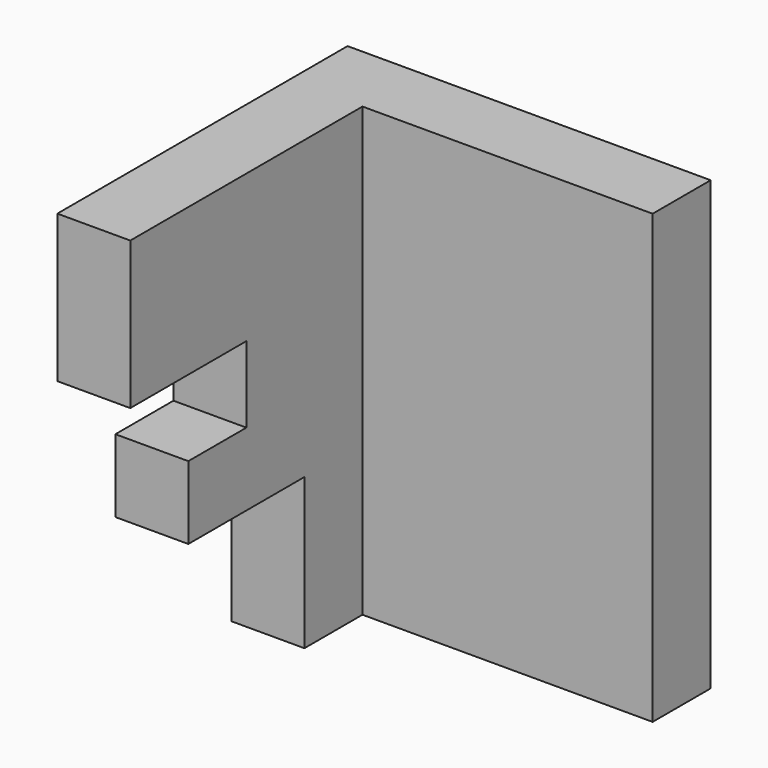
from build123d import *

# Parameters (mm, degrees)
F0_W     = 50.7864877582
F0_H     = 78.3076584339
F1_DEPTH = 12.7
F0_W_2   = 12.7675551921
F2_DEPTH = 63.5
F3_W     = 12.7675551921
F3_H     = 13.3350007236
F4_DEPTH = 25.4
F5_W     = 12.7675551921
F5_H     = 12.7675533295
F6_DEPTH = 12.7
F7_DEPTH = 38.1


with BuildPart() as f1:
    # F0 (on Front) → F1 (new body)
    with BuildSketch(Plane.XZ):
        with Locations((-2.837235108, 3.4046806395)):
            Rectangle(F0_W, F0_H)
    extrude(amount=F1_DEPTH)

    # F0 (on Front) → F2 (join)
    with BuildSketch(Plane.XZ):
        with Locations((-34.6142565832, 3.4046806395)):
            Rectangle(F0_W_2, F0_H)
    extrude(amount=F2_DEPTH)

    # F3 (on face) → F4 (cut)
    with BuildSketch(Plane.XZ.offset(63.5)):
        with Locations((-34.6142565832, 10.0721810013)):
            Rectangle(F3_W, F3_H)
    extrude(amount=-F4_DEPTH, mode=Mode.SUBTRACT)

    # F5 (on face) → F6 (cut)
    with BuildSketch(Plane.XZ.offset(63.5)):
        with Locations((-34.6142565832, -2.9790960252)):
            Rectangle(F5_W, F5_H)
    extrude(amount=-F6_DEPTH, mode=Mode.SUBTRACT)

    # F7 (cut): a face of the model
    f7_faces = [f1.faces().sort_by_distance(p)[0] for p in [
        (-34.6142565832, -63.5, -22.5560106337),
    ]]
    extrude(f7_faces, amount=-F7_DEPTH, mode=Mode.SUBTRACT)


solid = f1.part
